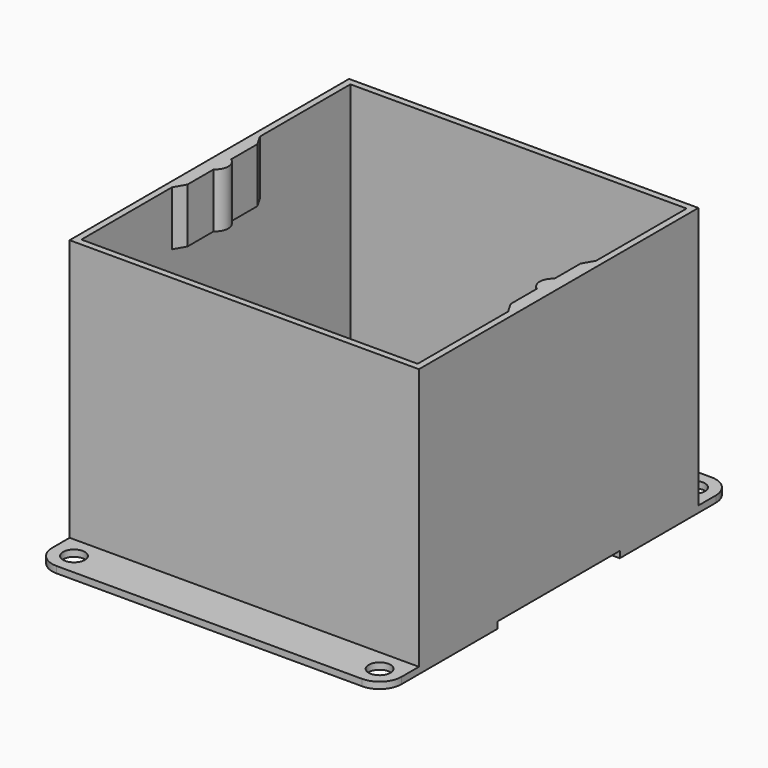
from build123d import *

# Parameters (mm, degrees)
F0_W     = 101.6
F0_H     = 101.6
F1_DEPTH = 76.2
F2_W     = 97.80524
F2_H     = 97.80524
F3_DEPTH = 74.30262
F5_DEPTH = 15.875
F6_R     = 3.175
F7_DEPTH = 1.89738


with BuildPart() as f1:
    # F0 (on Top) → F1 (new body)
    with BuildSketch(Plane.XY):
        Rectangle(F0_W, F0_H)
    extrude(amount=F1_DEPTH)

    # F2 (on face) → F3 (cut)
    with BuildSketch(Plane.XY.offset(76.2)):
        Rectangle(F2_W, F2_H)
    extrude(amount=-F3_DEPTH, mode=Mode.SUBTRACT)

    # F4 (on face) → F5 (join)
    with BuildSketch(Plane.XY.offset(76.2)):
        with BuildLine():
            Line((-47.00524, 12.7), (-48.90262, 15.986359))
            Line((-48.90262, 15.986359), (-48.90262, -15.986359))
            Line((-48.90262, -15.986359), (-47.00524, -12.7))
            Line((-47.00524, -12.7), (-47.00524, -3.175))
            ThreePointArc((-47.00524, -3.175), (-45.301297, 0), (-47.00524, 3.175))
            Line((-47.00524, 3.175), (-47.00524, 12.7))
        make_face()
        with BuildLine():
            Line((48.90262, -15.986359), (48.90262, 15.986359))
            Line((48.90262, 15.986359), (47.00524, 12.7))
            Line((47.00524, 12.7), (47.00524, 3.175))
            ThreePointArc((47.00524, 3.175), (45.301297, 0), (47.00524, -3.175))
            Line((47.00524, -3.175), (47.00524, -12.7))
            Line((47.00524, -12.7), (48.90262, -15.986359))
        make_face()
    extrude(amount=-F5_DEPTH)

    # F6 (on face) → F7 (join)
    with BuildSketch(Plane(origin=(0, 0, 0), x_dir=(1, 0, 0), z_dir=(0, 0, -1))):
        with BuildLine():
            Line((-50.8, 57.15), (-50.8, 22.225))
            Line((-50.8, 22.225), (50.8, 22.225))
            Line((50.8, 22.225), (50.8, 57.15))
            ThreePointArc((50.8, 57.15), (48.940128, 61.640128), (44.45, 63.5))
            Line((44.45, 63.5), (-44.45, 63.5))
            ThreePointArc((-44.45, 63.5), (-48.940128, 61.640128), (-50.8, 57.15))
        make_face()
        with Locations((-44.45, 57.15)):
            Circle(F6_R, mode=Mode.SUBTRACT)
        with Locations((44.45, 57.15)):
            Circle(F6_R, mode=Mode.SUBTRACT)
        with BuildLine():
            Line((50.8, -22.225), (-50.8, -22.225))
            Line((-50.8, -22.225), (-50.8, -57.15))
            ThreePointArc((-50.8, -57.15), (-48.940128, -61.640128), (-44.45, -63.5))
            Line((-44.45, -63.5), (44.45, -63.5))
            ThreePointArc((44.45, -63.5), (48.940128, -61.640128), (50.8, -57.15))
            Line((50.8, -57.15), (50.8, -22.225))
        make_face()
        with Locations((-44.45, -57.15)):
            Circle(F6_R, mode=Mode.SUBTRACT)
        with Locations((44.45, -57.15)):
            Circle(F6_R, mode=Mode.SUBTRACT)
    extrude(amount=F7_DEPTH)


solid = f1.part
